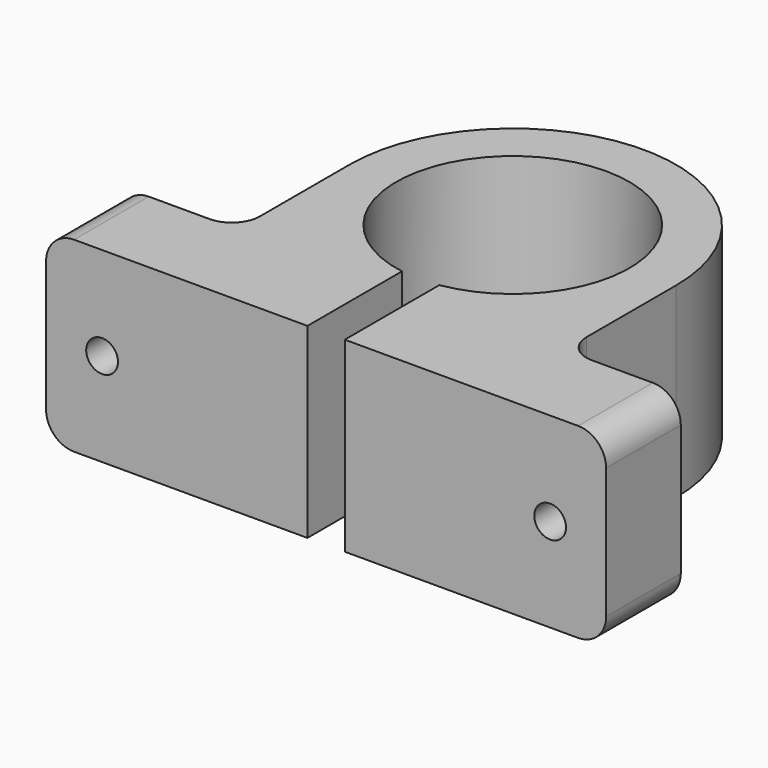
from build123d import *

# Parameters (mm, degrees)
F1_DEPTH = 10
F3_D     = 3.4
F4_R     = 3


with BuildPart() as f1:
    # F0 (on Top) → F1 (new body, symmetric)
    with BuildSketch(Plane.XY):
        with BuildLine():
            ThreePointArc((-2, -12.338963), (0, 12.5), (2, -12.338963))
            Line((2, -12.338963), (2, -25))
            Line((2, -25), (30, -25))
            Line((30, -25), (30, -15))
            Line((30, -15), (17.5, -15))
            Line((17.5, -15), (17.5, 0))
            ThreePointArc((17.5, 0), (0, 17.5), (-17.5, 0))
            Line((-17.5, 0), (-17.5, -15))
            Line((-17.5, -15), (-30, -15))
            Line((-30, -15), (-30, -25))
            Line((-30, -25), (-2, -25))
            Line((-2, -25), (-2, -12.338963))
        make_face()
    extrude(amount=F1_DEPTH, both=True)

    # F3 (through all)
    with Locations(Plane(origin=(0, -15, 0), x_dir=(-1, 0, 0), z_dir=(0, 1, 0))):
        with Locations((24, 0), (-24, 0)):
            Hole(F3_D / 2)

    # F4
    f4_edges = [f1.edges().sort_by_distance(p)[0] for p in [
        (17.5, -15, 0),
        (-17.5, -15, 0),
        (-30, -20, 10),
        (-30, -20, -10),
        (30, -20, 10),
        (30, -20, -10),
    ]]
    fillet(f4_edges, radius=F4_R)


solid = f1.part
